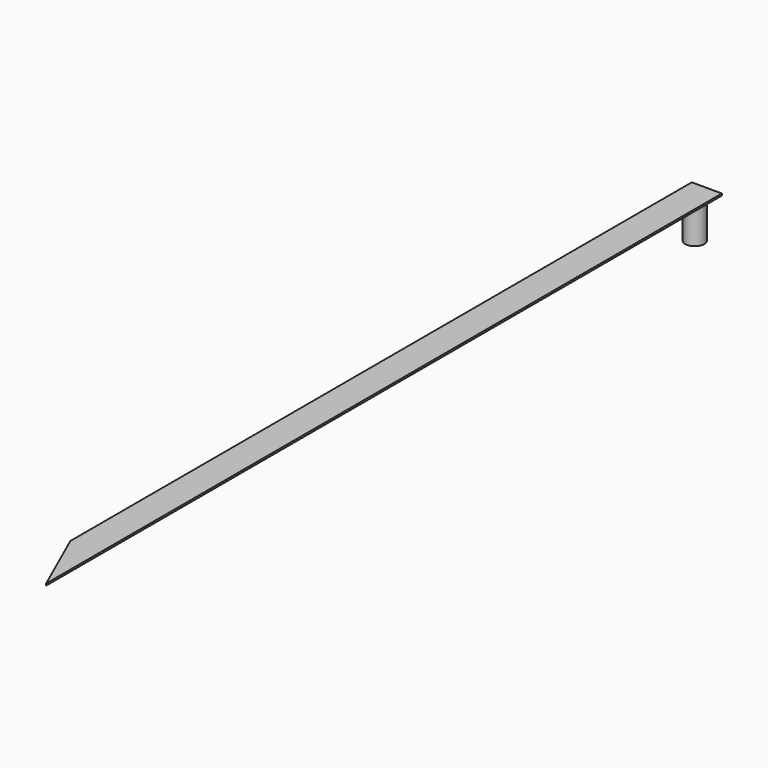
from build123d import *

# Parameters (mm, degrees)
F0_W     = 76.2
F0_H     = 2133.6
F1_DEPTH = 4.7625
F2_R     = 24.13
F2_R_2   = 20.447
F3_DEPTH = 101.6
F5_DEPTH = 35.814


with BuildPart() as f1:
    # F0 (on Top) → F1 (new body)
    with BuildSketch(Plane.XY):
        with Locations((375.958569, -213.009804)):
            Rectangle(F0_W, F0_H)
    extrude(amount=-F1_DEPTH)

    # F2 (on face) → F3 (join)
    with BuildSketch(Plane.XY):
        with Locations((375.958569, 815.690196)):
            Circle(F2_R)
        with Locations((375.958569, 815.690196)):
            Circle(F2_R_2, mode=Mode.SUBTRACT)
    extrude(amount=-F3_DEPTH)

    # F4 (on face) → F5 (cut)
    with BuildSketch(Plane(origin=(0, 0, -4.7625), x_dir=(1, 0, 0), z_dir=(0, 0, -1))):
        Polygon((337.858569, 1107.854731), (414.058569, 1279.809804), (337.858569, 1279.809804), align=None)
    extrude(amount=-F5_DEPTH, mode=Mode.SUBTRACT)


solid = f1.part
